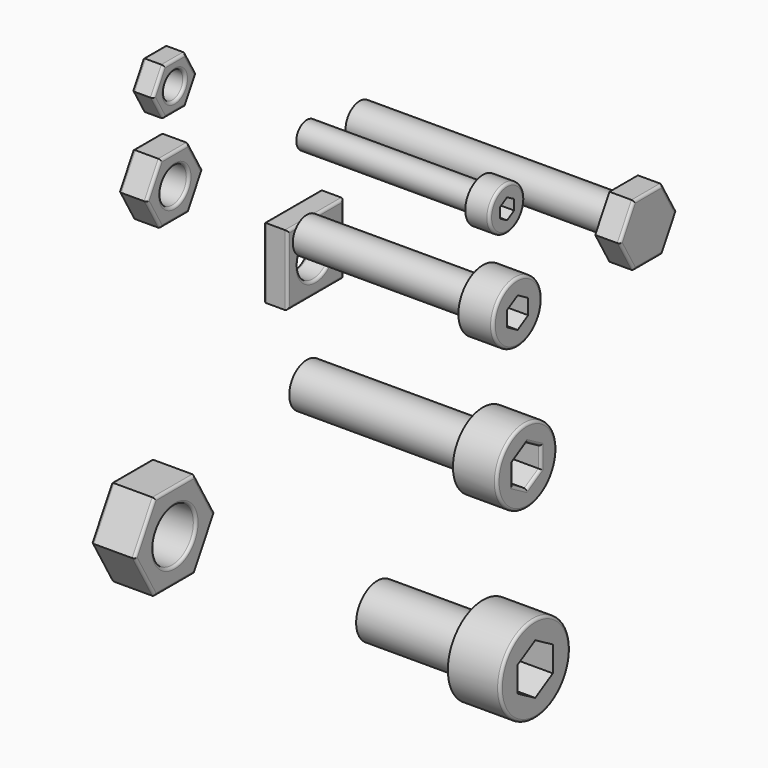
from build123d import *

# Parameters (mm, degrees)
F0_R      = 1.5
F1_DEPTH  = 2.4
F0_R_2    = 2
F2_DEPTH  = 3.2
F0_R_3    = 3
F3_DEPTH  = 4.95
F0_W      = 8
F0_H      = 8
F0_R_4    = 2.5
F4_DEPTH  = 2.7
F6_R      = 1.5
F7_DEPTH  = 20
F6_R_2    = 2
F8_DEPTH  = 20
F6_R_3    = 3
F9_DEPTH  = 12
F6_R_4    = 2.5
F10_DEPTH = 2.75
F6_R_5    = 3.475
F11_DEPTH = 3.95
F6_R_6    = 4.975
F12_DEPTH = 5.95
F13_DEPTH = 2.8
F14_DEPTH = 30
F6_R_7    = 4.25
F15_DEPTH = 5
F16_DEPTH = 20
F17_R     = 0.3
F17_2_R   = 0.3
F17_3_R   = 0.3
F17_4_R   = 0.3
F17_5_R   = 0.3
F17_6_R   = 0.3
F17_7_R   = 0.3
F17_8_R   = 0.3
F17_9_R   = 0.3


with BuildPart() as f1:
    # F0 (on Right) → F1 (new body)
    with BuildSketch(Plane.YZ):
        Polygon((-29.8990511575, 36.9805877914), (-26.8102272174, 36.9805877914), (-25.2658152473, 39.6555877914), (-26.8102272174, 42.3305877914), (-29.8990511575, 42.3305877914), (-31.4434631276, 39.6555877914), align=None)
        with Locations((-28.3546391875, 39.6555877914)):
            Circle(F0_R, mode=Mode.SUBTRACT)
    extrude(amount=-F1_DEPTH)

    # F17#5
    f17_5_edges = [f1.edges().sort_by_distance(p)[0] for p in [
        (0, -30.671257, 38.318088),
        (0, -28.354639, 36.980588),
        (0, -26.038021, 38.318088),
        (0, -26.038021, 40.993088),
        (0, -28.354639, 42.330588),
        (0, -30.671257, 40.993088),
        (0, -29.854639, 39.655588),
        (-2.4, -30.671257, 38.318088),
        (-2.4, -28.354639, 36.980588),
        (-2.4, -26.038021, 38.318088),
        (-2.4, -26.038021, 40.993088),
        (-2.4, -28.354639, 42.330588),
        (-2.4, -30.671257, 40.993088),
        (-2.4, -29.854639, 39.655588),
    ]]
    fillet(f17_5_edges, radius=F17_5_R)


with BuildPart() as f2:
    # F0 (on Right) → F2 (new body)
    with BuildSketch(Plane.YZ):
        Polygon((-30.3464976162, 26.2055877914), (-26.3627807588, 26.2055877914), (-24.37092233, 29.6555877914), (-26.3627807588, 33.1055877914), (-30.3464976162, 33.1055877914), (-32.3383560449, 29.6555877914), align=None)
        with Locations((-28.3546391875, 29.6555877914)):
            Circle(F0_R_2, mode=Mode.SUBTRACT)
    extrude(amount=-F2_DEPTH)

    # F17#6
    f17_6_edges = [f2.edges().sort_by_distance(p)[0] for p in [
        (-3.2, -28.354639, 26.205588),
        (-3.2, -25.366852, 27.930588),
        (-3.2, -25.366852, 31.380588),
        (-3.2, -28.354639, 33.105588),
        (-3.2, -31.342427, 31.380588),
        (-3.2, -31.342427, 27.930588),
        (-3.2, -30.354639, 29.655588),
        (0, -28.354639, 26.205588),
        (0, -25.366852, 27.930588),
        (0, -25.366852, 31.380588),
        (0, -28.354639, 33.105588),
        (0, -31.342427, 31.380588),
        (0, -31.342427, 27.930588),
        (0, -30.354639, 29.655588),
    ]]
    fillet(f17_6_edges, radius=F17_6_R)


with BuildPart() as f3:
    # F0 (on Right) → F3 (new body)
    with BuildSketch(Plane.YZ):
        Polygon((-31.1980892632, -10.2694122086), (-25.5111891117, -10.2694122086), (-22.6677390359, -5.3444122086), (-25.5111891117, -0.4194122086), (-31.1980892632, -0.4194122086), (-34.041539339, -5.3444122086), align=None)
        with Locations((-28.3546391875, -5.3444122086)):
            Circle(F0_R_3, mode=Mode.SUBTRACT)
    extrude(amount=-F3_DEPTH)

    # F17#7
    f17_7_edges = [f3.edges().sort_by_distance(p)[0] for p in [
        (-4.95, -32.619814, -7.806912),
        (-4.95, -28.354639, -10.269412),
        (-4.95, -24.089464, -7.806912),
        (-4.95, -24.089464, -2.881912),
        (-4.95, -28.354639, -0.419412),
        (-4.95, -32.619814, -2.881912),
        (-4.95, -31.354639, -5.344412),
        (0, -32.619814, -7.806912),
        (0, -28.354639, -10.269412),
        (0, -24.089464, -7.806912),
        (0, -24.089464, -2.881912),
        (0, -28.354639, -0.419412),
        (0, -32.619814, -2.881912),
        (0, -31.354639, -5.344412),
    ]]
    fillet(f17_7_edges, radius=F17_7_R)


with BuildPart() as f4:
    # F0 (on Right) → F4 (new body)
    with BuildSketch(Plane.YZ):
        with Locations((-8.3546391875, 14.6555877914)):
            Rectangle(F0_W, F0_H)
        with Locations((-8.3546391875, 14.6555877914)):
            Circle(F0_R_4, mode=Mode.SUBTRACT)
    extrude(amount=-F4_DEPTH)

    # F17#8
    f17_8_edges = [f4.edges().sort_by_distance(p)[0] for p in [
        (0, -8.354639, 10.655588),
        (0, -4.354639, 14.655588),
        (0, -8.354639, 18.655588),
        (0, -12.354639, 14.655588),
        (0, -10.854639, 14.655588),
        (-2.7, -8.354639, 10.655588),
        (-2.7, -4.354639, 14.655588),
        (-2.7, -8.354639, 18.655588),
        (-2.7, -12.354639, 14.655588),
        (-2.7, -10.854639, 14.655588),
    ]]
    fillet(f17_8_edges, radius=F17_8_R)


with BuildPart() as f7:
    # F6 (on offset) → F7 (new body)
    with BuildSketch(Plane.YZ.offset(35)):
        with Locations((-28.3546391875, 39.6555877914)):
            Circle(F6_R)
        Polygon((-28.3546391875, 40.8102883298), (-27.3546391875, 40.2329380606), (-27.3546391875, 39.0782375223), (-28.3546391875, 38.5008872531), (-29.3546391875, 39.0782375223), (-29.3546391875, 40.2329380606), align=None, mode=Mode.SUBTRACT)
        Polygon((-27.3546391875, 39.0782375223), (-27.3546391875, 40.2329380606), (-28.3546391875, 40.8102883298), (-29.3546391875, 40.2329380606), (-29.3546391875, 39.0782375223), (-28.3546391875, 38.5008872531), align=None)
    extrude(amount=-F7_DEPTH)

    # F6 (on offset) → F10 (join)
    with BuildSketch(Plane.YZ.offset(35)):
        with Locations((-28.3546391875, 39.6555877914)):
            Circle(F6_R_4)
        with Locations((-28.3546391875, 39.6555877914)):
            Circle(F6_R, mode=Mode.SUBTRACT)
        with Locations((-28.3546391875, 39.6555877914)):
            Circle(F6_R)
        Polygon((-28.3546391875, 40.8102883298), (-27.3546391875, 40.2329380606), (-27.3546391875, 39.0782375223), (-28.3546391875, 38.5008872531), (-29.3546391875, 39.0782375223), (-29.3546391875, 40.2329380606), align=None, mode=Mode.SUBTRACT)
    extrude(amount=F10_DEPTH)

    # F17#4
    f17_4_edges = [f7.edges().sort_by_distance(p)[0] for p in [
        (37.75, -30.854639, 39.655588),
    ]]
    fillet(f17_4_edges, radius=F17_4_R)


with BuildPart() as f8:
    # F6 (on offset) → F8 (new body)
    with BuildSketch(Plane.YZ.offset(35)):
        with Locations((-28.3546391875, 29.6555877914)):
            Circle(F6_R_2)
        Polygon((-28.3546391875, 31.387638599), (-26.8546391875, 30.5216131952), (-26.8546391875, 28.7895623877), (-28.3546391875, 27.9235369839), (-29.8546391875, 28.7895623877), (-29.8546391875, 30.5216131952), align=None, mode=Mode.SUBTRACT)
        Polygon((-26.8546391875, 28.7895623877), (-26.8546391875, 30.5216131952), (-28.3546391875, 31.387638599), (-29.8546391875, 30.5216131952), (-29.8546391875, 28.7895623877), (-28.3546391875, 27.9235369839), align=None)
    extrude(amount=-F8_DEPTH)

    # F6 (on offset) → F11 (join)
    with BuildSketch(Plane.YZ.offset(35)):
        with Locations((-28.3546391875, 29.6555877914)):
            Circle(F6_R_5)
        with Locations((-28.3546391875, 29.6555877914)):
            Circle(F6_R_2, mode=Mode.SUBTRACT)
        with Locations((-28.3546391875, 29.6555877914)):
            Circle(F6_R_2)
        Polygon((-28.3546391875, 31.387638599), (-26.8546391875, 30.5216131952), (-26.8546391875, 28.7895623877), (-28.3546391875, 27.9235369839), (-29.8546391875, 28.7895623877), (-29.8546391875, 30.5216131952), align=None, mode=Mode.SUBTRACT)
    extrude(amount=F11_DEPTH)

    # F17#3
    f17_3_edges = [f8.edges().sort_by_distance(p)[0] for p in [
        (38.95, -31.829639, 29.655588),
    ]]
    fillet(f17_3_edges, radius=F17_3_R)


with BuildPart() as f9:
    # F6 (on offset) → F9 (new body)
    with BuildSketch(Plane.YZ.offset(35)):
        with Locations((-28.3546391875, -5.3444122086)):
            Circle(F6_R_3)
        Polygon((-28.3546391875, -2.4576608626), (-25.8546391875, -3.9010365356), (-25.8546391875, -6.7877878815), (-28.3546391875, -8.2311635545), (-30.8546391875, -6.7877878815), (-30.8546391875, -3.9010365356), align=None, mode=Mode.SUBTRACT)
        Polygon((-25.8546391875, -6.7877878815), (-25.8546391875, -3.9010365356), (-28.3546391875, -2.4576608626), (-30.8546391875, -3.9010365356), (-30.8546391875, -6.7877878815), (-28.3546391875, -8.2311635545), align=None)
    extrude(amount=-F9_DEPTH)

    # F6 (on offset) → F12 (join)
    with BuildSketch(Plane.YZ.offset(35)):
        with Locations((-28.3546391875, -5.3444122086)):
            Circle(F6_R_6)
        with Locations((-28.3546391875, -5.3444122086)):
            Circle(F6_R_3, mode=Mode.SUBTRACT)
        with Locations((-28.3546391875, -5.3444122086)):
            Circle(F6_R_3)
        Polygon((-28.3546391875, -2.4576608626), (-25.8546391875, -3.9010365356), (-25.8546391875, -6.7877878815), (-28.3546391875, -8.2311635545), (-30.8546391875, -6.7877878815), (-30.8546391875, -3.9010365356), align=None, mode=Mode.SUBTRACT)
    extrude(amount=F12_DEPTH)

    # F17
    f17_edges = [f9.edges().sort_by_distance(p)[0] for p in [
        (40.95, -33.329639, -5.344412),
    ]]
    fillet(f17_edges, radius=F17_R)


with BuildPart() as f13:
    # F6 (on offset) → F13 (new body)
    with BuildSketch(Plane.YZ.offset(35)):
        Polygon((-6.3339132453, 33.1555877914), (-10.3753651296, 33.1555877914), (-12.3960910718, 29.6555877914), (-10.3753651296, 26.1555877914), (-6.3339132453, 26.1555877914), (-4.3131873031, 29.6555877914), align=None)
        with Locations((-8.3546391875, 29.6555877914)):
            Circle(F6_R_2, mode=Mode.SUBTRACT)
        with Locations((-8.3546391875, 29.6555877914)):
            Circle(F6_R_2)
    extrude(amount=F13_DEPTH)

    # F6 (on offset) → F14 (join)
    with BuildSketch(Plane.YZ.offset(35)):
        with Locations((-8.3546391875, 29.6555877914)):
            Circle(F6_R_2)
    extrude(amount=-F14_DEPTH)

    # F17#2
    f17_2_edges = [f13.edges().sort_by_distance(p)[0] for p in [
        (37.8, -5.32355, 31.405588),
        (37.8, -8.354639, 33.155588),
        (37.8, -11.385728, 31.405588),
        (37.8, -11.385728, 27.905588),
        (37.8, -8.354639, 26.155588),
        (37.8, -5.32355, 27.905588),
    ]]
    fillet(f17_2_edges, radius=F17_2_R)


with BuildPart() as f15:
    # F6 (on offset) → F15 (new body)
    with BuildSketch(Plane.YZ.offset(35)):
        with Locations((-28.3546391875, 14.6555877914)):
            Circle(F6_R_7)
        with Locations((-28.3546391875, 14.6555877914)):
            Circle(F6_R_4, mode=Mode.SUBTRACT)
        with Locations((-28.3546391875, 14.6555877914)):
            Circle(F6_R_4)
        Polygon((-28.3546391875, 16.9649888682), (-26.3546391875, 15.8102883298), (-26.3546391875, 13.5008872531), (-28.3546391875, 12.3461867147), (-30.3546391875, 13.5008872531), (-30.3546391875, 15.8102883298), align=None, mode=Mode.SUBTRACT)
    extrude(amount=F15_DEPTH)

    # F6 (on offset) → F16 (join)
    with BuildSketch(Plane.YZ.offset(35)):
        with Locations((-28.3546391875, 14.6555877914)):
            Circle(F6_R_4)
        Polygon((-28.3546391875, 16.9649888682), (-26.3546391875, 15.8102883298), (-26.3546391875, 13.5008872531), (-28.3546391875, 12.3461867147), (-30.3546391875, 13.5008872531), (-30.3546391875, 15.8102883298), align=None, mode=Mode.SUBTRACT)
        Polygon((-26.3546391875, 13.5008872531), (-26.3546391875, 15.8102883298), (-28.3546391875, 16.9649888682), (-30.3546391875, 15.8102883298), (-30.3546391875, 13.5008872531), (-28.3546391875, 12.3461867147), align=None)
    extrude(amount=-F16_DEPTH)

    # F17#9
    f17_9_edges = [f15.edges().sort_by_distance(p)[0] for p in [
        (40, -32.604639, 14.655588),
        (40, -29.354639, 16.387639),
        (40, -27.354639, 16.387639),
        (40, -26.354639, 14.655588),
        (40, -27.354639, 12.923537),
        (40, -29.354639, 12.923537),
        (40, -30.354639, 14.655588),
    ]]
    fillet(f17_9_edges, radius=F17_9_R)


solid = Compound([f1.part, f2.part, f3.part, f4.part, f7.part, f8.part, f9.part, f13.part, f15.part])
